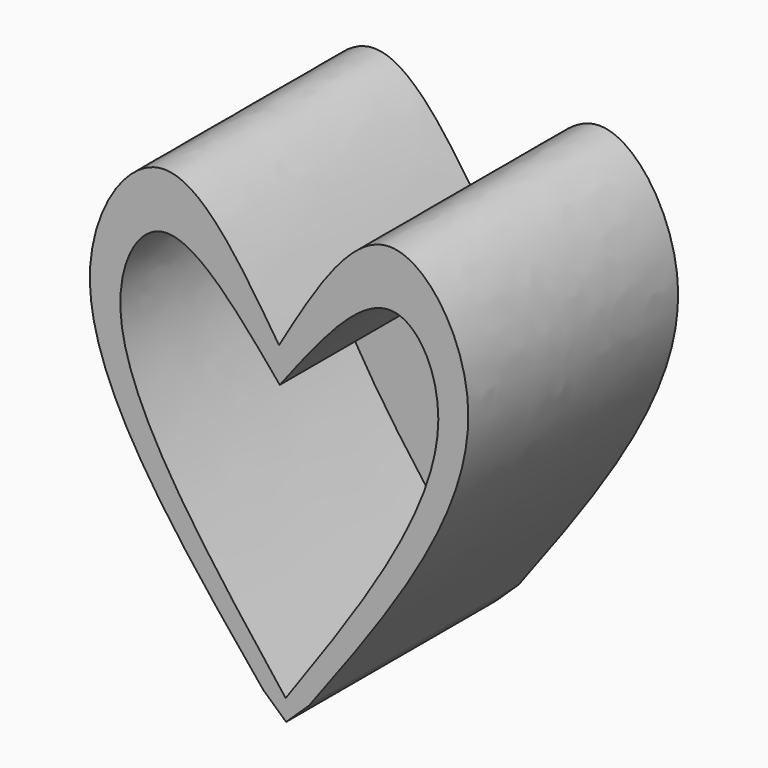
from build123d import *

# Parameters (mm, degrees)
F1_DEPTH = 17.1958
F2_DEPTH = 1.27


with BuildPart() as f1:
    # F0 (on Front) → F1 (new body)
    with BuildSketch(Plane.XZ):
        with BuildLine():
            add(Edge.make_bspline(
                [(5.8491540482, -20.2276108934), (0.1227568398, -13.2410970002), (-9.1738412765, -1.900316122), (-0.6004910975, 11.4896106569), (4.3132264916, 3.9483505847), (6.8859223132, 0)],
                knots=[0, 0, 0, 0, 0.4331754213, 0.7032330515, 1, 1, 1, 1], degree=3))
            Line((5.8491540482, -20.2276108934), (7.3514936251, -21.59))
            Line((7.3514936251, -21.59), (8.852242511, -20.1599373597))
            add(Edge.make_bspline(
                [(8.852242511, -20.1599373597), (14.2512406842, -12.9172633067), (23.0160834146, -1.1593598985), (13.8358657709, 11.8218148607), (9.2742198308, 4.0624807123), (6.8859222922, 0)],
                knots=[0, 0, 0, 0, 0.4331820762, 0.7032365357, 1, 1, 1, 1], degree=3))
        make_face()
        with BuildLine():
            add(Edge.make_bspline(
                [(7.3221147996, -20.2276108696), (12.3114805407, -13.2243089546), (19.9426811168, -2.5128068597), (14.2122748207, 7.2427496605), (9.5490929418, 1.144107321), (6.9349746668, -2.2747111406)],
                knots=[0, 0, 0, 0, 0.4535146315, 0.6936475085, 1, 1, 1, 1], degree=3))
            add(Edge.make_bspline(
                [(7.3221147907, -20.2276108934), (2.0354861687, -13.4459026934), (-6.0503759454, -3.0733266445), (-0.7458428402, 6.9201896348), (4.1759067343, 1.028238817), (6.9349746445, -2.2747111167)],
                knots=[0, 0, 0, 0, 0.4535146318, 0.6936475087, 1, 1, 1, 1], degree=3))
        make_face(mode=Mode.SUBTRACT)
    extrude(amount=F1_DEPTH)

    # F0 (on Front) → F2 (join)
    with BuildSketch(Plane.XZ):
        with BuildLine():
            add(Edge.make_bspline(
                [(7.3221147907, -20.2276108934), (2.0354861687, -13.4459026934), (-6.0503759454, -3.0733266445), (-0.7458428402, 6.9201896348), (4.1759067343, 1.028238817), (6.9349746445, -2.2747111167)],
                knots=[0, 0, 0, 0, 0.4535146318, 0.6936475087, 1, 1, 1, 1], degree=3))
            add(Edge.make_bspline(
                [(7.3221147996, -20.2276108696), (12.3114805407, -13.2243089546), (19.9426811168, -2.5128068597), (14.2122748207, 7.2427496605), (9.5490929418, 1.144107321), (6.9349746668, -2.2747111406)],
                knots=[0, 0, 0, 0, 0.4535146315, 0.6936475085, 1, 1, 1, 1], degree=3))
        make_face()
    extrude(amount=F2_DEPTH)


solid = f1.part
